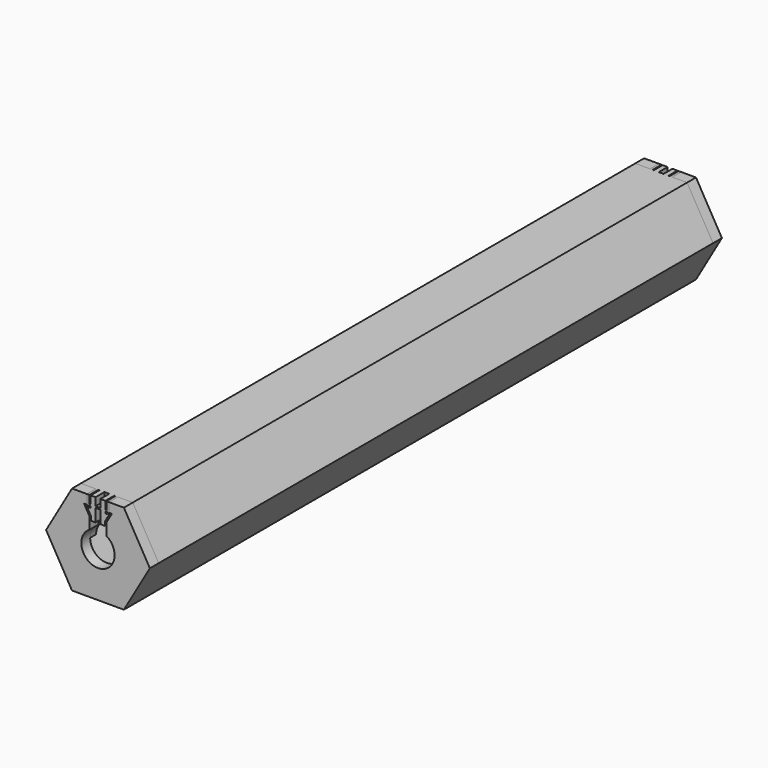
from build123d import *

# Parameters (mm, degrees)
PAD002_DEPTH      = 100
PAD001_DEPTH      = 93.5
PAD_DEPTH         = 96.5
SKETCH010_W       = 3
SKETCH010_H       = 0.4
PAD008_DEPTH      = 5
SKETCH011_W       = 3
SKETCH011_H       = 0.4
PAD009_DEPTH      = 5
SKETCH005_W       = 62
SKETCH005_H       = 32
PAD005_DEPTH      = 100
PAD004_DEPTH      = 91.5
PAD003_DEPTH      = 93.5
SKETCH006_R       = 4.5
POCKET_DEPTH      = 187.001
POCKET_DEPTH_BACK = -0.001
PAD006_DEPTH      = 3
PAD007_DEPTH      = 3
SKETCH012_W       = 0.4
SKETCH012_H       = 3
PAD010_DEPTH      = 3
SKETCH013_W       = 0.4
SKETCH013_H       = 3
PAD011_DEPTH      = 3


with BuildPart() as pad002:
    # Sketch002 → Pad002 (new body, symmetric)
    with BuildSketch(Plane.XZ):
        with BuildLine():
            Line((2.25, 7), (2.25, 3.897114))
            ThreePointArc((-2.25, 3.897114), (0, -4.5), (2.25, 3.897114))
            Line((-2.25, 3.897114), (-2.25, 7))
            Line((-3.75, 9.598076), (-2.25, 7))
            Line((-2.25, 9.598076), (-3.75, 9.598076))
            Line((-2.25, 9.598076), (-2.25, 24.598076))
            Line((-2.25, 24.598076), (2.25, 24.598076))
            Line((2.25, 24.598076), (2.25, 9.598076))
            Line((2.25, 9.598076), (3.75, 9.598076))
            Line((3.75, 9.598076), (2.25, 7))
        make_face()
    extrude(amount=PAD002_DEPTH, both=True)


with BuildPart() as pad001:
    # Sketch001 → Pad001 (new body, symmetric)
    with BuildSketch(Plane.XZ):
        Polygon((-19.8481, 20), (19.8481, 20), (19.8481, 0), (13, 0), (6.5, -11.25833), (-6.5, -11.25833), (-13, 0), (-19.8481, 0), align=None)
    extrude(amount=PAD001_DEPTH, both=True)


with BuildPart() as obj1:
    # Sketch → Pad (new body, symmetric)
    with BuildSketch(Plane.XZ):
        Polygon((7, -12.124356), (14, 0), (7, 12.124356), (-7, 12.124356), (-14, 0), (-7, -12.124356), align=None)
    extrude(amount=PAD_DEPTH, both=True)

    # Cut: cut Pad001
    add(pad001.part, mode=Mode.SUBTRACT)

    # Cut001: cut Pad002
    add(pad002.part, mode=Mode.SUBTRACT)

    # Sketch010 → Pad008 (new body)
    with BuildSketch(Plane(origin=(2.25, 0, 0), x_dir=(0, -1, 0), z_dir=(-1, 0, 0))):
        with Locations((95, 9.798076)):
            Rectangle(SKETCH010_W, SKETCH010_H)
    extrude(amount=PAD008_DEPTH)

    # Sketch011 → Pad009 (new body)
    with BuildSketch(Plane(origin=(2.25, 0, 0), x_dir=(0, -1, 0), z_dir=(-1, 0, 0))):
        with Locations((-95, 9.798076)):
            Rectangle(SKETCH011_W, SKETCH011_H)
    extrude(amount=PAD009_DEPTH)


with BuildPart() as pad005:
    # Sketch005 → Pad005 (new body, symmetric)
    with BuildSketch(Plane.XZ):
        with Locations((0, -16)):
            Rectangle(SKETCH005_W, SKETCH005_H)
    extrude(amount=PAD005_DEPTH, both=True)


with BuildPart() as pad004:
    # Sketch004 → Pad004 (new body, symmetric)
    with BuildSketch(Plane.XZ):
        Polygon((-31.5, 0), (-12, 0), (-6, 10.392305), (6, 10.392305), (12, 0), (31.5, 0), (31.5, -32), (-31.5, -32), align=None)
    extrude(amount=PAD004_DEPTH, both=True)


with BuildPart() as tapa2:
    # Sketch003 → Pad003 (new body, symmetric)
    with BuildSketch(Plane.XZ):
        Polygon((7, -12.124356), (14, 0), (7, 12.124356), (-7, 12.124356), (-14, 0), (-7, -12.124356), align=None)
    extrude(amount=PAD003_DEPTH, both=True)

    # Cut002: cut Pad004
    add(pad004.part, mode=Mode.SUBTRACT)

    # Cut003: cut Pad005
    add(pad005.part, mode=Mode.SUBTRACT)

    # Sketch006 → Pocket (cut, two sides)
    with BuildSketch(Plane.XZ.offset(93.5)) as pocket_sk:
        Circle(SKETCH006_R)
    extrude(amount=-POCKET_DEPTH, mode=Mode.SUBTRACT)
    extrude(pocket_sk.sketch, amount=-POCKET_DEPTH_BACK, mode=Mode.SUBTRACT)

    # Sketch008 → Pad006 (new body)
    with BuildSketch(Plane(origin=(0, 93.5, 0), x_dir=(-1, 0, 0), z_dir=(0, 1, 0))):
        Polygon((-2, 12.124356), (-2, 9.124356), (-3, 9.124356), (-1.85, 7.132497), (-1.85, 6.124356), (-0.65, 6.124356), (-0.65, 12.124356), align=None)
        Polygon((0.65, 12.124356), (0.65, 6.124356), (1.85, 6.124356), (1.85, 7.132497), (3, 9.124356), (2, 9.124356), (2, 12.124356), align=None)
    extrude(amount=PAD006_DEPTH)

    # Sketch009 → Pad007 (new body)
    with BuildSketch(Plane.XZ.offset(93.5)):
        Polygon((0.65, 12.124356), (0.65, 6.124356), (1.85, 6.124356), (1.85, 7.132497), (3, 9.124356), (2, 9.124356), (2, 12.124356), align=None)
        Polygon((-2, 12.124356), (-0.65, 12.124356), (-0.65, 6.124356), (-1.85, 6.124356), (-1.85, 7.132497), (-3, 9.124356), (-2, 9.124356), align=None)
    extrude(amount=PAD007_DEPTH)

    # Sketch012 → Pad010 (new body)
    with BuildSketch(Plane.XY.offset(9.124356)):
        with Locations((-2.8, -95)):
            Rectangle(SKETCH012_W, SKETCH012_H)
        with Locations((2.8, -95)):
            Rectangle(SKETCH012_W, SKETCH012_H)
    extrude(amount=PAD010_DEPTH)

    # Sketch013 → Pad011 (new body)
    with BuildSketch(Plane.XY.offset(9.124356)):
        with Locations((2.8, 95)):
            Rectangle(SKETCH013_W, SKETCH013_H)
        with Locations((-2.8, 95)):
            Rectangle(SKETCH013_W, SKETCH013_H)
    extrude(amount=PAD011_DEPTH)


solid = Compound([obj1.part, tapa2.part])
